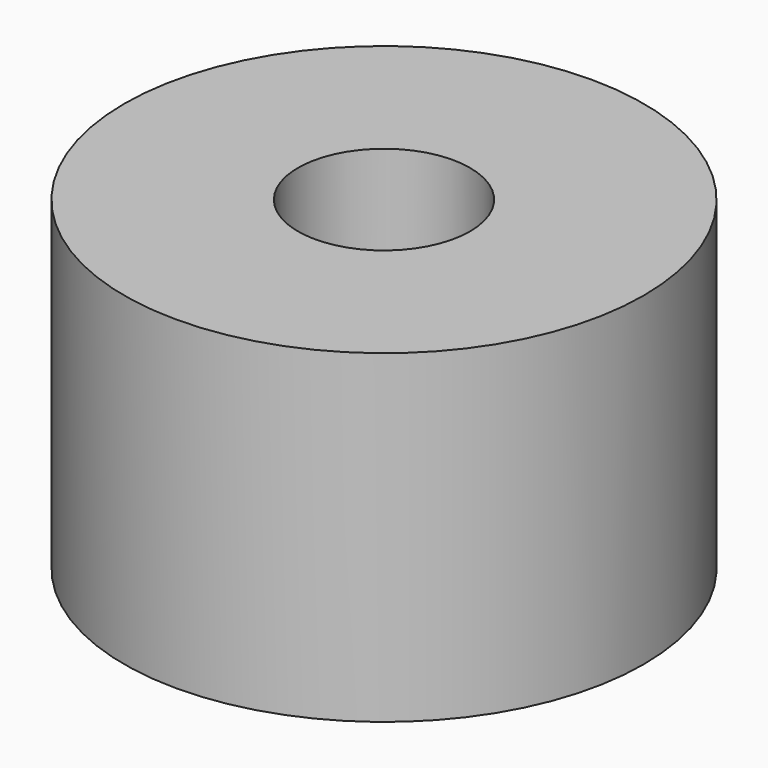
from build123d import *

# Parameters (mm, degrees)
CYLINDER1037_R     = 1
CYLINDER1037_DEPTH = 20
CYLINDER1041_R     = 1
CYLINDER1041_DEPTH = 20
CYLINDER1027_R     = 1
CYLINDER1027_DEPTH = 20
CYLINDER1031_R     = 1
CYLINDER1031_DEPTH = 20
TUBE087_R          = 8
TUBE087_R_2        = 2.65
TUBE087_DEPTH      = 10


with BuildPart() as obj1:
    # Cylinder1037 → Cylinder1037 (new body)
    with BuildSketch(Plane(origin=(4.25, -4.25, -88), x_dir=(0, 1, 0), z_dir=(0, 0, 1))):
        Circle(CYLINDER1037_R)
    extrude(amount=CYLINDER1037_DEPTH)


with BuildPart() as obj2:
    # Cylinder1041 → Cylinder1041 (new body)
    with BuildSketch(Plane(origin=(4.25, 4.25, -88), x_dir=(-1, 0, 0), z_dir=(0, 0, 1))):
        Circle(CYLINDER1041_R)
    extrude(amount=CYLINDER1041_DEPTH)


with BuildPart() as obj3:
    # Cylinder1027 → Cylinder1027 (new body)
    with BuildSketch(Plane(origin=(-4.25, 4.25, -88), x_dir=(0, -1, 0), z_dir=(0, 0, 1))):
        Circle(CYLINDER1027_R)
    extrude(amount=CYLINDER1027_DEPTH)


with BuildPart() as compound829:
    # Cylinder1031 → Cylinder1031 (new body)
    with BuildSketch(Plane(origin=(-4.25, -4.25, -88), x_dir=(1, 0, 0), z_dir=(0, 0, 1))):
        Circle(CYLINDER1031_R)
    extrude(amount=CYLINDER1031_DEPTH)

    # Compound829: union obj1, obj2, obj3
    add(obj1.part)
    add(obj2.part)
    add(obj3.part)


with BuildPart() as compound829_1:
    # Compound829 placement: moved
    add(compound829.part.moved(Location((0, 0, 91))))


with BuildPart() as cut372:
    # Tube087 → Tube087 (new body)
    with BuildSketch(Plane.XY.offset(19)):
        Circle(TUBE087_R)
        Circle(TUBE087_R_2, mode=Mode.SUBTRACT)
    extrude(amount=TUBE087_DEPTH)

    # Cut372: cut Compound829
    add(compound829_1.part, mode=Mode.SUBTRACT)


solid = cut372.part
